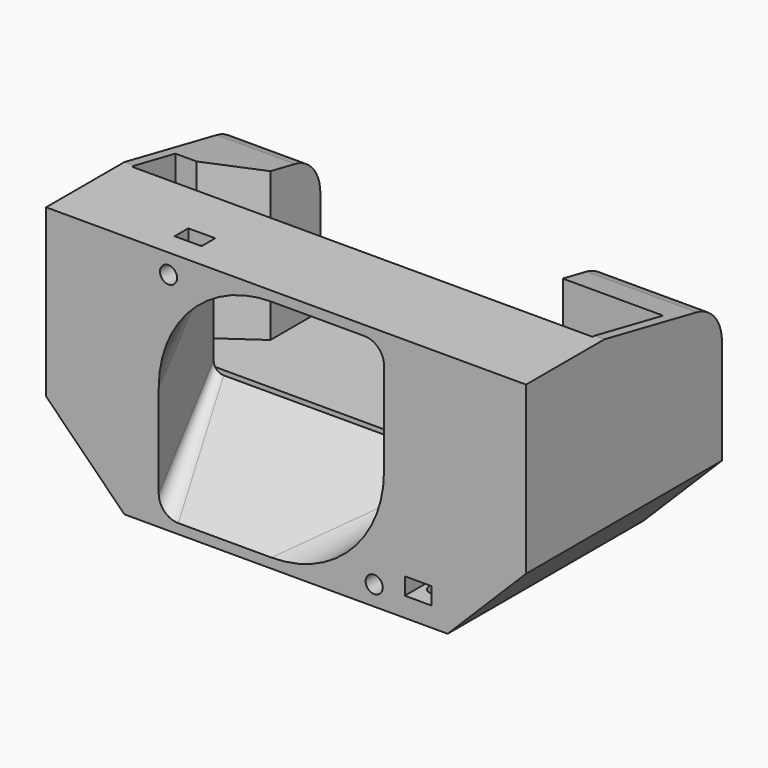
from build123d import *

# Parameters (mm, degrees)
SKETCH_W             = 98
SKETCH_H             = 50
PAD_DEPTH            = 50
POCKET_DEPTH         = 33.801
POCKET081_DEPTH      = 46.001
POCKET081_DEPTH_BACK = 52.001
POCKET082_DEPTH      = 30.001
POCKET082_DEPTH_BACK = 20.001
SKETCH245_R          = 1.75
POCKET083_DEPTH      = 20.001
POCKET084_DEPTH      = 3.5
SKETCH247_W          = 82
SKETCH247_H          = 5
POCKET085_DEPTH      = 36.001
FILLET_R             = 8
SKETCH248_R          = 1.75
POCKET086_DEPTH      = 10
POCKET087_DEPTH      = 3.5


with BuildPart() as part:
    # Sketch → Pad (new body)
    with BuildSketch(Plane.XY):
        with Locations((3, 5)):
            Rectangle(SKETCH_W, SKETCH_H)
    extrude(amount=PAD_DEPTH)

    # Sketch029 → SubtractiveLoft section 0
    with BuildSketch(Plane.XZ.offset(20)):
        with BuildLine():
            Line((-23, 25), (-23, 6))
            ThreePointArc((-23, 6), (-21.828427, 3.171573), (-19, 2))
            Line((-19, 2), (0, 2))
            ThreePointArc((0, 2), (16.263456, 8.736544), (23, 25))
            Line((23, 25), (23, 44))
            ThreePointArc((23, 44), (21.828427, 46.828427), (19, 48))
            Line((19, 48), (0, 48))
            ThreePointArc((0, 48), (-16.263456, 41.263456), (-23, 25))
        make_face()
    # Sketch030 → SubtractiveLoft section 1
    with BuildSketch(Plane.XZ):
        with BuildLine():
            Line((-27.5, 39), (-27.5, 21))
            ThreePointArc((-27.5, 21), (-26.914214, 19.585786), (-25.5, 19))
            Line((-25.5, 19), (25.5, 19))
            ThreePointArc((25.5, 19), (26.914214, 19.585786), (27.5, 21))
            Line((27.5, 21), (27.5, 39))
            ThreePointArc((27.5, 39), (26.914214, 40.414214), (25.5, 41))
            Line((25.5, 41), (-25.5, 41))
            ThreePointArc((-25.5, 41), (-26.914214, 40.414214), (-27.5, 39))
        make_face()
    loft(mode=Mode.SUBTRACT)

    # Sketch242 → Pocket (cut, through all)
    with BuildSketch(Plane(origin=(0, 0, 16.2), x_dir=(-1, 0, 0), z_dir=(0, 0, -1))):
        Polygon((-50, -0.5), (44, -0.5), (44, 10.5), (39.657611, 10.5), (30, 17.260328), (30, 25.5), (30, 40), (-29.5, 40), (-29.5, 25.5), (-29.5, 17.5), (-50, 17.5), align=None)
    extrude(amount=-POCKET_DEPTH, mode=Mode.SUBTRACT)

    # Sketch243 → Pocket081 (cut, two sides)
    with BuildSketch(Plane.YZ) as pocket081_sk:
        Polygon((30, 44), (0, 50), (30, 50), align=None)
    extrude(amount=-POCKET081_DEPTH, mode=Mode.SUBTRACT)
    extrude(pocket081_sk.sketch, amount=POCKET081_DEPTH_BACK, mode=Mode.SUBTRACT)

    # Sketch244 → Pocket082 (cut, two sides)
    with BuildSketch(Plane.XZ) as pocket082_sk:
        Polygon((-46, 16), (-30, 0), (-46, 0), align=None)
        Polygon((36, 0), (52, 16), (52, 0), align=None)
    extrude(amount=-POCKET082_DEPTH, mode=Mode.SUBTRACT)
    extrude(pocket082_sk.sketch, amount=POCKET082_DEPTH_BACK, mode=Mode.SUBTRACT)

    # Sketch245 → Pocket083 (cut, through all)
    with BuildSketch(Plane.XZ):
        with Locations((-21, 46)):
            Circle(SKETCH245_R)
        with Locations((21, 4)):
            Circle(SKETCH245_R)
    extrude(amount=POCKET083_DEPTH, mode=Mode.SUBTRACT)

    # Sketch246 → Pocket084 (cut)
    with BuildSketch(Plane.XZ.offset(15)):
        Polygon((-18.25, 44.412287), (-18.25, 47.587713), (-18.25, 50), (-23.75, 50), (-23.75, 47.587713), (-23.75, 44.412287), (-21, 42.824574), align=None)
        Polygon((23.75, 5.587713), (21, 7.175426), (18.25, 5.587713), (18.25, 2.412287), (18.25, 0), (23.75, 0), (23.75, 2.412287), align=None)
    extrude(amount=-POCKET084_DEPTH, mode=Mode.SUBTRACT)

    # Sketch247 → Pocket085 (cut, through all)
    with BuildSketch(Plane.XY.offset(14)):
        with Locations((9, 2)):
            Rectangle(SKETCH247_W, SKETCH247_H)
    extrude(amount=POCKET085_DEPTH, mode=Mode.SUBTRACT)

    # Fillet
    fillet_edges = [part.edges().sort_by_distance(p)[0] for p in [
        (-38, 30, 44),
        (40.75, 30, 44),
    ]]
    fillet(fillet_edges, radius=FILLET_R)

    # Sketch248 → Pocket086 (cut)
    with BuildSketch(Plane.XY):
        with Locations((30, -15)):
            Circle(SKETCH248_R)
        with Locations((-24, 25)):
            Circle(SKETCH248_R)
    extrude(amount=POCKET086_DEPTH, mode=Mode.SUBTRACT)

    # Sketch249 → Pocket087 (cut)
    with BuildSketch(Plane.XY.offset(4)):
        Polygon((-24, 21.824574), (-21.25, 23.412287), (-21.25, 26.587713), (-21.25, 30), (-26.75, 30), (-26.75, 26.587713), (-26.75, 23.412287), align=None)
        Polygon((32.75, -13.412287), (30, -11.824574), (27.25, -13.412287), (27.25, -16.587713), (27.25, -20), (32.75, -20), (32.75, -16.587713), align=None)
    extrude(amount=POCKET087_DEPTH, mode=Mode.SUBTRACT)


solid = part.part
